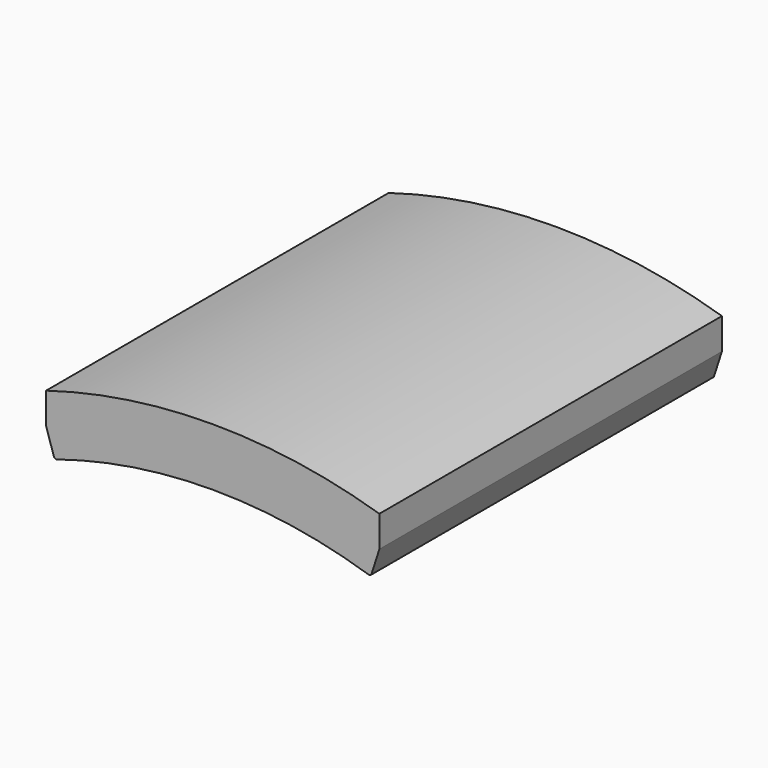
from build123d import *

# Parameters (mm, degrees)
F1_DEPTH = 66.8
F2_SIZE  = 0.25


with BuildPart() as f1:
    # F0 (on Front) → F1 (new body)
    with BuildSketch(Plane.XZ):
        with BuildLine():
            Line((24.667633, 76.889989), (26, 81.043029))
            Line((26, 81.043029), (26, 85.90147))
            ThreePointArc((26, 85.90147), (0, 89.75), (-26, 85.90147))
            Line((-26, 85.90147), (-26, 81.043029))
            Line((-26, 81.043029), (-24.667633, 76.889989))
            ThreePointArc((-24.667633, 76.889989), (0, 80.75), (24.667633, 76.889989))
        make_face()
    extrude(amount=-F1_DEPTH)

    # F2
    f2_edges = [f1.edges().sort_by_distance(p)[0] for p in [
        (24.667633, 33.4, 76.889989),
        (-24.667633, 33.4, 76.889989),
    ]]
    chamfer(f2_edges, length=F2_SIZE)


solid = f1.part
